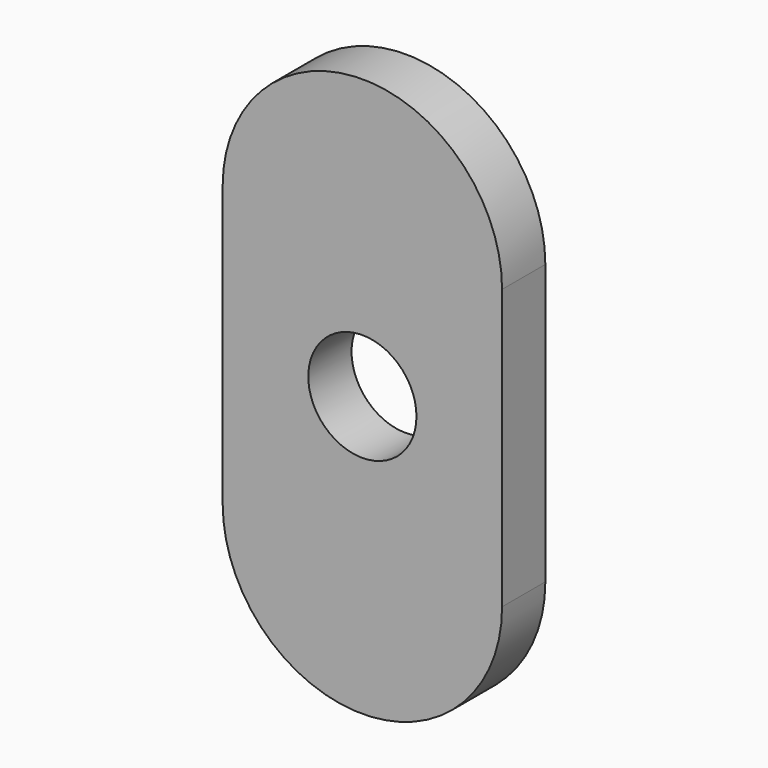
from build123d import *

# Parameters (mm, degrees)
F0_R     = 3
F1_DEPTH = 3


with BuildPart() as f1:
    # F0 (on Front) → F1 (new body)
    with BuildSketch(Plane.XZ):
        with BuildLine():
            Line((-7.750292, 7.75), (-7.749708, -7.75))
            ThreePointArc((-7.749708, -7.75), (0.000292, -15.500292), (7.750292, -7.75))
            Line((7.750292, -7.75), (7.749708, 7.75))
            ThreePointArc((7.749708, 7.75), (-0.000292, 15.499708), (-7.750292, 7.75))
        make_face()
        Circle(F0_R, mode=Mode.SUBTRACT)
    extrude(amount=F1_DEPTH)


solid = f1.part
